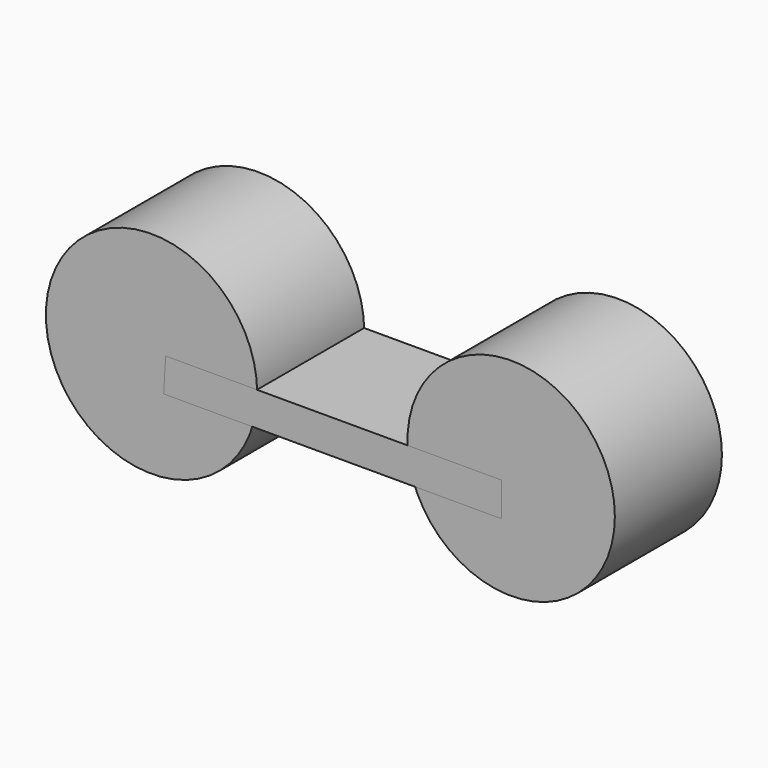
from build123d import *

# Parameters (mm, degrees)
F0_R     = 20.054887
F0_R_2   = 19.678906
F1_DEPTH = 25.4
F3_DEPTH = 25.4


with BuildPart() as f1:
    # F0 (on Front) → F1 (new body)
    with BuildSketch(Plane.XZ):
        with Locations((-38.900782, 13.229558)):
            Circle(F0_R)
        with Locations((29.370746, 14.636378)):
            Circle(F0_R_2)
    extrude(amount=F1_DEPTH)


with BuildPart() as f3:
    # F2 (on Front) → F3 (new body)
    with BuildSketch(Plane.XZ):
        Polygon((27.561048, 13.734437), (-36.225725, 13.734437), (-36.594436, 7.282016), (27.561048, 7.282016), align=None)
    extrude(amount=F3_DEPTH)


solid = Compound([f1.part, f3.part])
